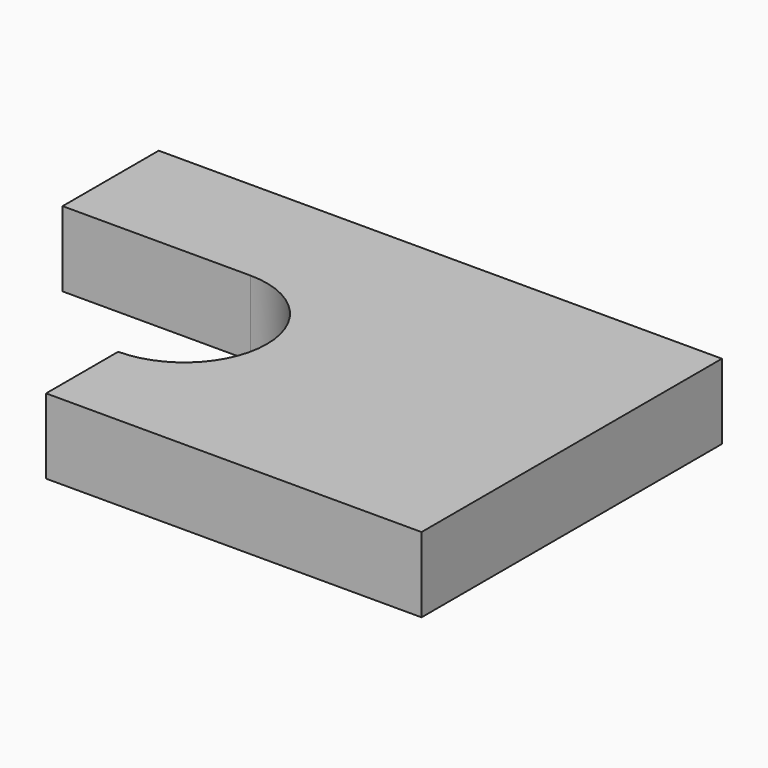
from build123d import *

# Parameters (mm, degrees)
F1_DEPTH = 10


with BuildPart() as f1:
    # F0 (on Top) → F1 (new body)
    with BuildSketch(Plane.XY):
        with BuildLine():
            Line((28.628895, 12), (28.628895, 0))
            Line((28.628895, 0), (78.628895, 0))
            Line((78.628895, 0), (78.628895, 50))
            Line((78.628895, 50), (3.628895, 50))
            Line((3.628895, 50), (3.628895, 34))
            Line((3.628895, 34), (28.628895, 34))
            ThreePointArc((28.628895, 34), (39.628895, 23), (28.628895, 12))
        make_face()
    extrude(amount=F1_DEPTH)


solid = f1.part
